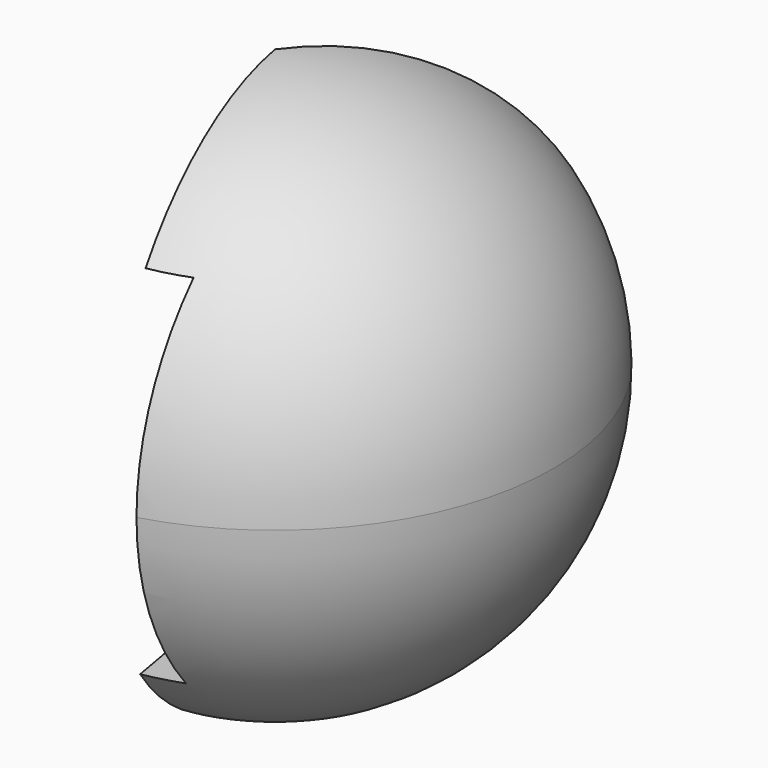
from build123d import *

# Parameters (mm, degrees)
F1_ANGLE_BACK = 55
F1_ANGLE      = 135
F2_W          = 35.4074761271
F2_H          = 52.5955706835
F3_DEPTH      = 91
F3_DEPTH_BACK = 5.1


with BuildPart() as f1:
    # F0 (on Front) → F1 (revolve)
    with BuildSketch(Plane.XZ, mode=Mode.PRIVATE) as f1_sk:
        with BuildLine():
            ThreePointArc((-51.1650554836, -21.7931568459), (-21.8556260102, -9.6527936526), (-9.7152628168, 19.6566358209))
            ThreePointArc((-9.7152628168, 19.6566358209), (-21.8556260102, 48.9660652943), (-51.1650554836, 61.1064284876))
            Line((-51.1650554836, 61.1064284876), (-51.1650554836, -21.7931568459))
        make_face()
    revolve(f1_sk.sketch.rotate(Axis((-51.1650554836, 0, 19.6566358209), (0, 0, -1)), -F1_ANGLE_BACK), axis=Axis((-51.1650554836, 0, 19.6566358209), (0, 0, -1)), revolution_arc=F1_ANGLE)

    # F2 (on Front) → F3 (cut, two sides)
    with BuildSketch(Plane.XZ) as f3_sk:
        with Locations((-57.5801171362, 20.4538330436)):
            Rectangle(F2_W, F2_H)
    extrude(amount=F3_DEPTH, mode=Mode.SUBTRACT)
    extrude(f3_sk.sketch, amount=-F3_DEPTH_BACK, mode=Mode.SUBTRACT)


solid = f1.part
